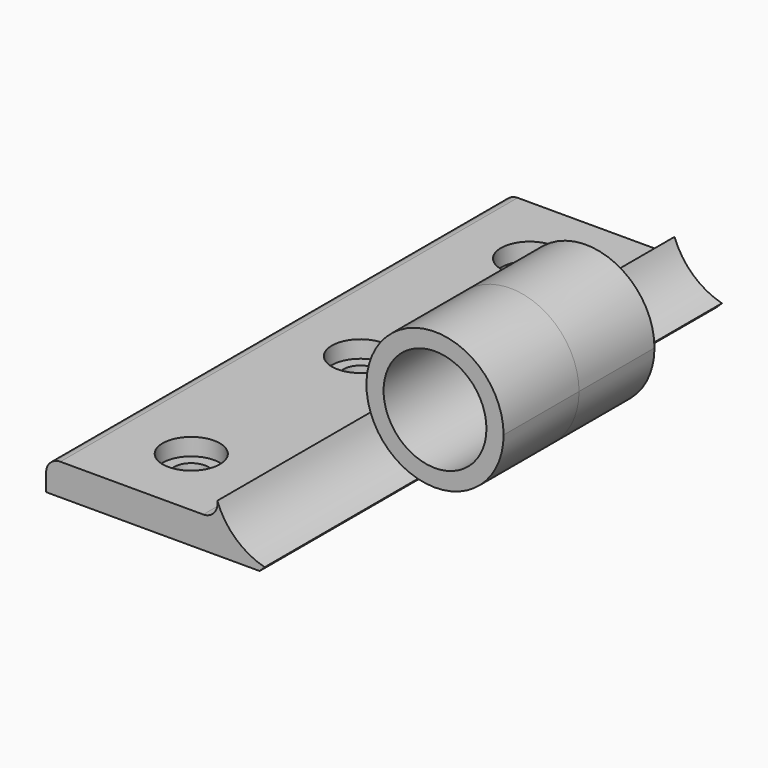
from build123d import *

# Parameters (mm, degrees)
F1_DEPTH  = 50
F2_R      = 2.5
F3_R      = 9
F4_DEPTH  = 100
F5_R      = 12
F7_DEPTH  = 33.5
F6_R      = 12
F8_DEPTH  = 33.5
F9_R      = 5
F11_DEPTH = 3
F10_R     = 3
F12_DEPTH = 2.5


with BuildPart() as f1:
    # F0 (on Front) → F1 (new body, symmetric)
    with BuildSketch(Plane.XZ):
        with BuildLine():
            Line((27.5, 5.5), (0, 5.5))
            Line((0, 5.5), (0, 0))
            Line((0, 0), (37.3689500386, 0))
            Line((37.3689500386, 0), (38.25, 0.8810499614))
            ThreePointArc((38.25, 0.8810499614), (33.172918626, 3.6252742871), (29.9640842591, 8.4222425415))
            ThreePointArc((29.9640842591, 8.4222425415), (29.4112308016, 6.388417913), (27.5, 5.5))
        make_face()
        with BuildLine():
            ThreePointArc((53.25, 12.5), (39.1800952788, 24.320130898), (29.9640842591, 8.4222425415))
            ThreePointArc((29.9640842591, 8.4222425415), (33.172918626, 3.6252742871), (38.25, 0.8810499614))
            ThreePointArc((38.25, 0.8810499614), (48.5984692283, 3.0131670195), (53.25, 12.5))
        make_face()
    extrude(amount=F1_DEPTH, both=True)

    # F2
    f2_edges = [f1.edges().sort_by_distance(p)[0] for p in [
        (0, 0, 5.5),
    ]]
    fillet(f2_edges, radius=F2_R)

    # F3 (on face) → F4 (cut, through all)
    with BuildSketch(Plane.XZ.offset(50)):
        with Locations((41.25, 12.5)):
            Circle(F3_R)
    extrude(amount=-F4_DEPTH, mode=Mode.SUBTRACT)

    # F5 (on face) → F7 (cut)
    with BuildSketch(Plane.XZ.offset(50)):
        with Locations((41.25, 12.5)):
            Circle(F5_R)
    extrude(amount=-F7_DEPTH, mode=Mode.SUBTRACT)

    # F6 (on face) → F8 (cut)
    with BuildSketch(Plane(origin=(0, 50, 0), x_dir=(-1, 0, 0), z_dir=(0, 1, 0))):
        with Locations((-41.25, 12.5)):
            Circle(F6_R)
    extrude(amount=-F8_DEPTH, mode=Mode.SUBTRACT)

    # F9 (on face) → F11 (cut)
    with BuildSketch(Plane.XY.offset(5.5)):
        with Locations((15, 0)):
            Circle(F9_R)
        with Locations((15, 37)):
            Circle(F9_R)
        with Locations((15, -37)):
            Circle(F9_R)
    extrude(amount=-F11_DEPTH, mode=Mode.SUBTRACT)

    # F10 (on face) → F12 (cut, through all)
    with BuildSketch(Plane(origin=(0, 0, 0), x_dir=(1, 0, 0), z_dir=(0, 0, -1))):
        with Locations((15, -37)):
            Circle(F10_R)
        with Locations((15, 0)):
            Circle(F10_R)
        with Locations((15, 37)):
            Circle(F10_R)
    extrude(amount=-F12_DEPTH, mode=Mode.SUBTRACT)


solid = f1.part
